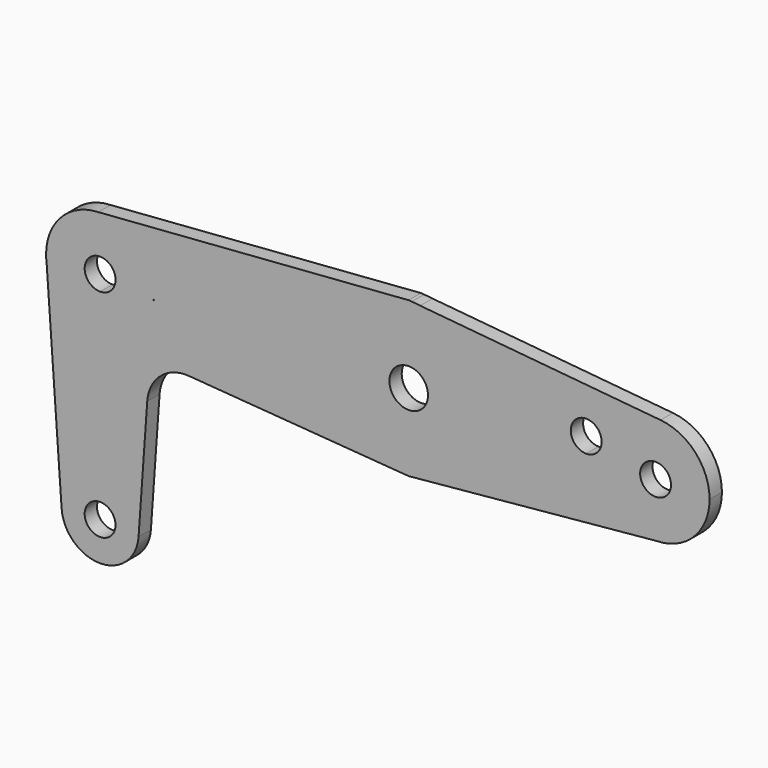
from build123d import *

# Parameters (mm, degrees)
F1_DEPTH = 3.175


with BuildPart() as f1:
    # F0 (on Front) → F1 (new body)
    with BuildSketch(Plane.XZ):
        with BuildLine():
            Line((15.875, 0), (3.9751, 0))
            ThreePointArc((3.9751, 0), (0, -3.9751), (-3.9751, 0))
            Line((-3.9751, 0), (-15.875, 0))
            ThreePointArc((-15.875, 0), (-10.6817358486, -11.7437704448), (1.5002622689, -15.8039500798))
            ThreePointArc((1.5002622689, -15.8039500798), (11.7437704448, -10.6817358486), (15.875, 0))
        make_face()
        with BuildLine():
            ThreePointArc((-3.9751, 0), (0, 3.9751), (3.9751, 0))
            Line((3.9751, 0), (15.875, 0))
            ThreePointArc((15.875, 0), (12.0288225692, 10.3596840009), (2.3539854993, 15.6995024529))
            Line((2.3539854993, 15.6995024529), (0.6027935511, 15.8635514603))
            ThreePointArc((0.6027935511, 15.8635514603), (-0.2955948224, 15.872247752), (-1.1930364393, 15.8301070449))
            ThreePointArc((-1.1930364393, 15.8301070449), (-11.6394819145, 10.7952807172), (-15.875, 0))
            Line((-15.875, 0), (-3.9751, 0))
        make_face()
        with BuildLine():
            Line((36.5252, 0), (15.875, 0))
            ThreePointArc((15.875, 0), (11.7437704448, -10.6817358486), (1.5002622689, -15.8039500798))
            Line((1.5002622689, -15.8039500798), (50.9283921277, -11.1117582637))
            ThreePointArc((50.9283921277, -11.1117582637), (42.9878012464, -7.9029872127), (39.6875, 0))
            Line((39.6875, 0), (36.5252, 0))
        make_face()
        with BuildLine():
            ThreePointArc((2.3539854993, 15.6995024529), (12.0288225692, 10.3596840009), (15.875, 0))
            Line((15.875, 0), (36.5252, 0))
            Line((36.5252, 0), (39.6875, 0))
            ThreePointArc((39.6875, 0), (43.3176892897, 8.2160016239), (51.8364642626, 11.064058843))
            Line((51.8364642626, 11.064058843), (2.3539854993, 15.6995024529))
        make_face()
        with BuildLine():
            ThreePointArc((39.7002, 3.175), (38.7702640303, 0.9299359697), (36.5252, 0))
            ThreePointArc((36.5252, 0), (34.2801359697, 5.4200640303), (39.7002, 3.175))
        make_face(mode=Mode.SUBTRACT)
        with BuildLine():
            Line((-52.3875, 0), (-15.875, 0))
            ThreePointArc((-15.875, 0), (-11.6394819145, 10.7952807172), (-1.1930364393, 15.8301070449))
            Line((-1.1930364393, 15.8301070449), (-63.8728285154, 11.1062439712))
            ThreePointArc((-63.8728285154, 11.1062439712), (-55.7752152337, 7.9884514497), (-52.3875, 0))
        make_face()
        with BuildLine():
            ThreePointArc((1.5002622689, -15.8039500798), (-10.6817358486, -11.7437704448), (-15.875, 0))
            Line((-15.875, 0), (-52.3875, 0))
            ThreePointArc((-52.3875, 0), (-52.4153874044, -0.7867781489), (-52.4989096478, -1.5696073753))
            ThreePointArc((-52.4989096478, -1.5696073753), (-56.2183314312, -8.3943408975), (-63.5, -11.1125))
            Line((-63.5, -11.1125), (-63.5, -36.5125))
            ThreePointArc((-63.5, -36.5125), (-57.8873399243, -38.8373399243), (-55.5625, -44.45))
            ThreePointArc((-55.5625, -44.45), (-55.5674814568, -44.7311686533), (-55.5824195746, -45.0119843921))
            Line((-55.5824195746, -45.0119843921), (-53.7975104819, -19.8650915378))
            ThreePointArc((-53.7975104819, -19.8650915378), (-51.0613936601, -14.4091151142), (-45.2638074239, -12.5007105892))
            Line((-45.2638074239, -12.5007105892), (0, -15.9463693532))
            Line((0, -15.9463693532), (1.5002622689, -15.8039500798))
        make_face()
        with BuildLine():
            Line((0.6027935511, 15.8635514603), (2.3539854993, 15.6995024529))
            ThreePointArc((2.3539854993, 15.6995024529), (1.4806632323, 15.8057983472), (0.6027935511, 15.8635514603))
        make_face()
        with BuildLine():
            Line((0, 15.9200202465), (-1.1930364393, 15.8301070449))
            ThreePointArc((-1.1930364393, 15.8301070449), (-0.2955948224, 15.872247752), (0.6027935511, 15.8635514603))
            Line((0.6027935511, 15.8635514603), (0, 15.9200202465))
        make_face()
        with BuildLine():
            Line((-60.325, 0), (-52.3875, 0))
            ThreePointArc((-52.3875, 0), (-55.7752152337, 7.9884514497), (-63.8728285154, 11.1062439712))
            ThreePointArc((-63.8728285154, 11.1062439712), (-71.4884514497, 7.7247847663), (-74.6125, 0))
            Line((-74.6125, 0), (-74.5010903522, -1.5696073753))
            ThreePointArc((-74.5010903522, -1.5696073753), (-70.7816685688, -8.3943408975), (-63.5, -11.1125))
            Line((-63.5, -11.1125), (-63.5, -3.175))
            ThreePointArc((-63.5, -3.175), (-65.7450640303, 2.2450640303), (-60.325, 0))
        make_face()
        with BuildLine():
            ThreePointArc((61.9125, 0), (59.0160016239, 7.4823107103), (51.8364642626, 11.064058843))
            ThreePointArc((51.8364642626, 11.064058843), (43.3176892897, 8.2160016239), (39.6875, 0))
            ThreePointArc((39.6875, 0), (42.9878012464, -7.9029872127), (50.9283921277, -11.1117582637))
            ThreePointArc((50.9283921277, -11.1117582637), (58.7029872127, -7.8121987536), (61.9125, 0))
        make_face()
        with BuildLine():
            ThreePointArc((53.975, 0), (50.8, -3.175), (47.625, 0))
            ThreePointArc((47.625, 0), (50.8, 3.175), (53.975, 0))
        make_face(mode=Mode.SUBTRACT)
        with BuildLine():
            Line((-74.5010903522, -1.5696073753), (-74.6125, 0))
            ThreePointArc((-74.6125, 0), (-74.5846125956, -0.7867781489), (-74.5010903522, -1.5696073753))
        make_face()
        with BuildLine():
            Line((-63.5, -36.5125), (-63.5, -11.1125))
            ThreePointArc((-63.5, -11.1125), (-70.7816685688, -8.3943408975), (-74.5010903522, -1.5696073753))
            Line((-74.5010903522, -1.5696073753), (-71.4175804254, -45.0119843921))
            ThreePointArc((-71.4175804254, -45.0119843921), (-69.3079539152, -39.0396786076), (-63.5, -36.5125))
        make_face()
        with BuildLine():
            ThreePointArc((-55.5625, -44.45), (-57.8873399243, -38.8373399243), (-63.5, -36.5125))
            ThreePointArc((-63.5, -36.5125), (-69.3079539152, -39.0396786076), (-71.4175804254, -45.0119843921))
            ThreePointArc((-71.4175804254, -45.0119843921), (-63.5, -52.3875), (-55.5824195746, -45.0119843921))
            ThreePointArc((-55.5824195746, -45.0119843921), (-55.5674814568, -44.7311686533), (-55.5625, -44.45))
        make_face()
        with BuildLine():
            ThreePointArc((-60.325, -44.45), (-65.7450640303, -46.6950640303), (-63.5, -41.275))
            ThreePointArc((-63.5, -41.275), (-61.2549359697, -42.2049359697), (-60.325, -44.45))
        make_face(mode=Mode.SUBTRACT)
        with BuildLine():
            Line((-52.4989096478, -1.5696073753), (-52.3875, 0))
            Line((-52.3875, 0), (-60.325, 0))
            ThreePointArc((-60.325, 0), (-61.2549359697, -2.2450640303), (-63.5, -3.175))
            Line((-63.5, -3.175), (-63.5, -11.1125))
            ThreePointArc((-63.5, -11.1125), (-56.2183314312, -8.3943408975), (-52.4989096478, -1.5696073753))
        make_face()
    extrude(amount=F1_DEPTH)


solid = f1.part
